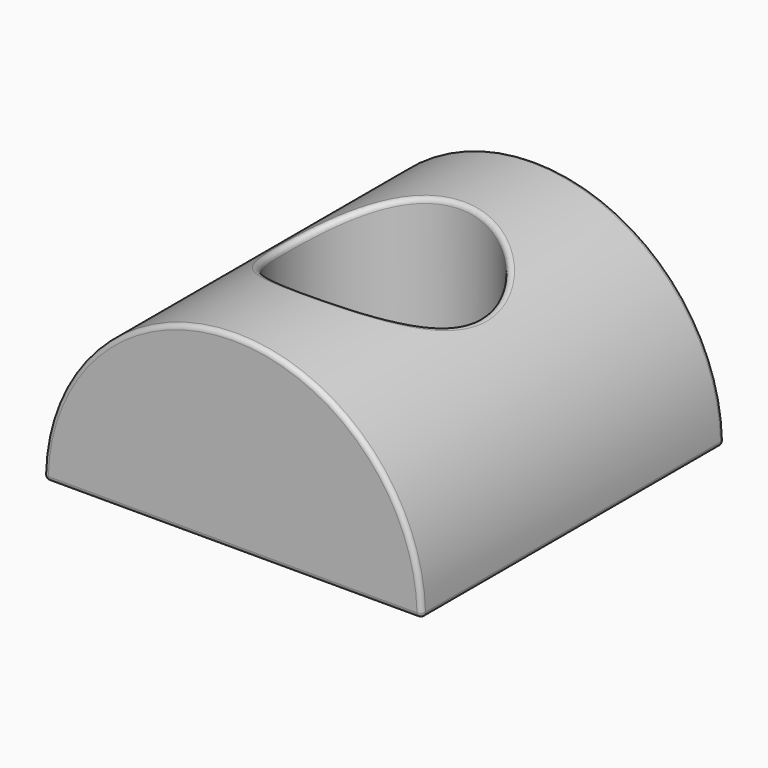
from build123d import *

# Parameters (mm, degrees)
F1_DEPTH = 40.64
F2_R     = 10.31875
F3_DEPTH = 20.321
F4_R     = 0.508


with BuildPart() as f1:
    # F0 (on Front) → F1 (new body)
    with BuildSketch(Plane.XZ):
        with BuildLine():
            Line((-20.32, 0), (20.32, 0))
            ThreePointArc((20.32, 0), (0, 20.32), (-20.32, 0))
        make_face()
    extrude(amount=F1_DEPTH)

    # F2 (on Top) → F3 (cut, through all)
    with BuildSketch(Plane.XY):
        with Locations((0, -20.3943801171)):
            Circle(F2_R)
    extrude(amount=F3_DEPTH, mode=Mode.SUBTRACT)

    # F4
    f4_edges = [f1.edges().sort_by_distance(p)[0] for p in [
        (0, 0, 0),
        (0, 0, 20.32),
        (-20.32, -20.32, 0),
        (0, -40.64, 0),
        (20.32, -20.32, 0),
        (-10.31875, -20.39438, 0),
        (0, -40.64, 20.32),
        (-10.31875, -20.39438, 17.505022),
    ]]
    fillet(f4_edges, radius=F4_R)


solid = f1.part
